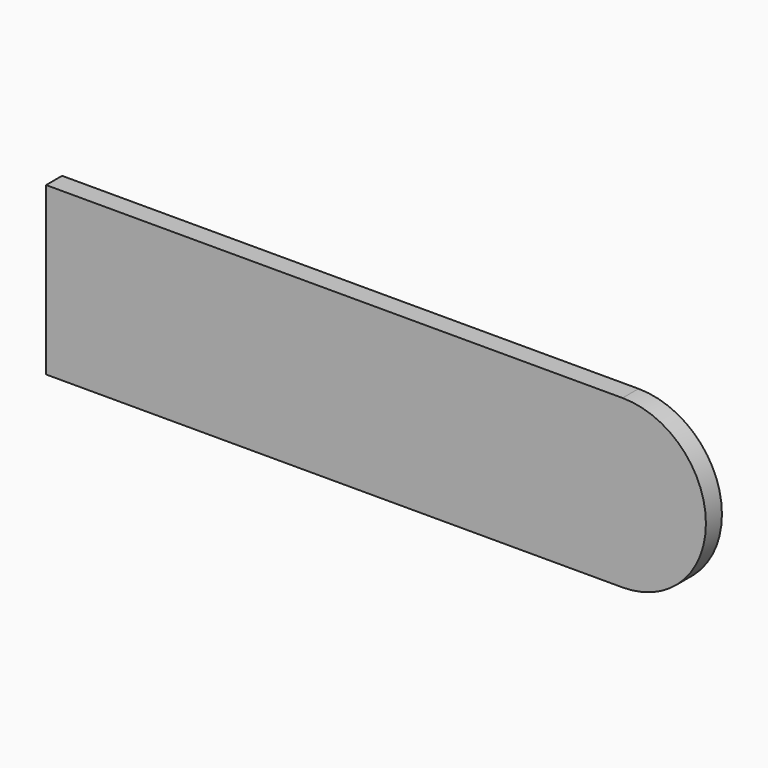
from build123d import *

# Parameters (mm, degrees)
F0_W     = 100
F0_H     = 25
F1_DEPTH = 3
F3_DEPTH = 3.001


with BuildPart() as f1:
    # F0 (on Front) → F1 (new body)
    with BuildSketch(Plane.XZ):
        Rectangle(F0_W, F0_H)
    extrude(amount=F1_DEPTH)

    # F2 (on face) → F3 (cut, through all)
    with BuildSketch(Plane.XZ.offset(3)):
        with BuildLine():
            ThreePointArc((36.407848, 12.5), (48.907848, 1e-06), (36.40785, -12.5))
            Line((36.40785, -12.5), (50, -12.5))
            Line((50, -12.5), (50, 12.5))
            Line((50, 12.5), (36.407848, 12.5))
        make_face()
    extrude(amount=-F3_DEPTH, mode=Mode.SUBTRACT)


solid = f1.part
